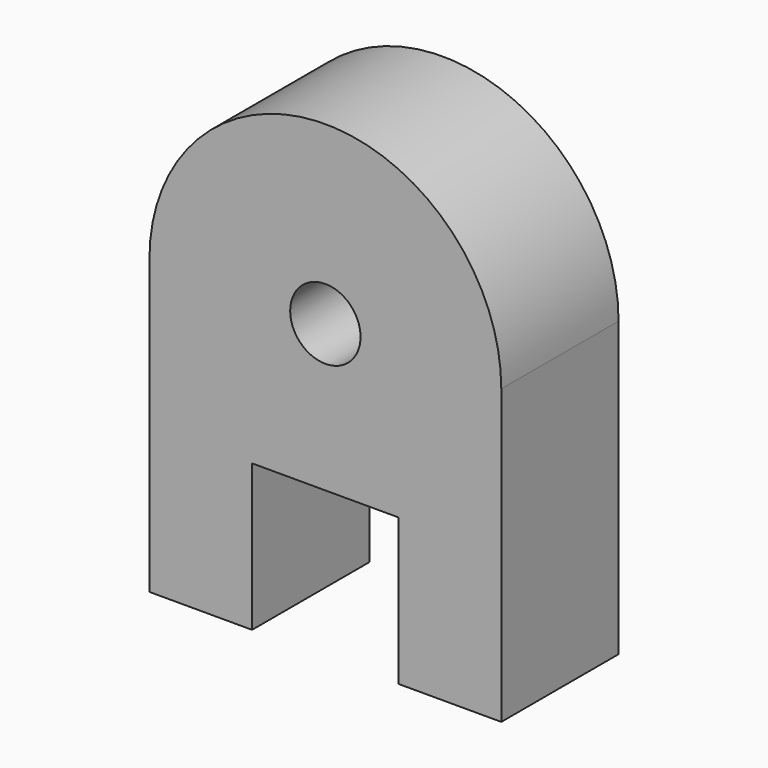
from build123d import *

# Parameters (mm, degrees)
F1_DEPTH = 3.175
F2_D     = 1.524


with BuildPart() as f1:
    # F0 (on Front) → F1 (new body)
    with BuildSketch(Plane.XZ):
        with BuildLine():
            Line((-3.81, 6.35), (-3.81, 0))
            Line((-3.81, 0), (-1.5875, 0))
            Line((-1.5875, 0), (-1.5875, 3.175))
            Line((-1.5875, 3.175), (1.5875, 3.175))
            Line((1.5875, 3.175), (1.5875, 0))
            Line((1.5875, 0), (3.81, 0))
            Line((3.81, 0), (3.81, 6.35))
            ThreePointArc((3.81, 6.35), (0, 10.16), (-3.81, 6.35))
        make_face()
    extrude(amount=F1_DEPTH)

    # F2 (through all)
    with Locations(Plane(origin=(0, 0, 0), x_dir=(1, 0, 0), z_dir=(0, 1, 0))):
        with Locations((0, -6.35)):
            Hole(F2_D / 2)


solid = f1.part
